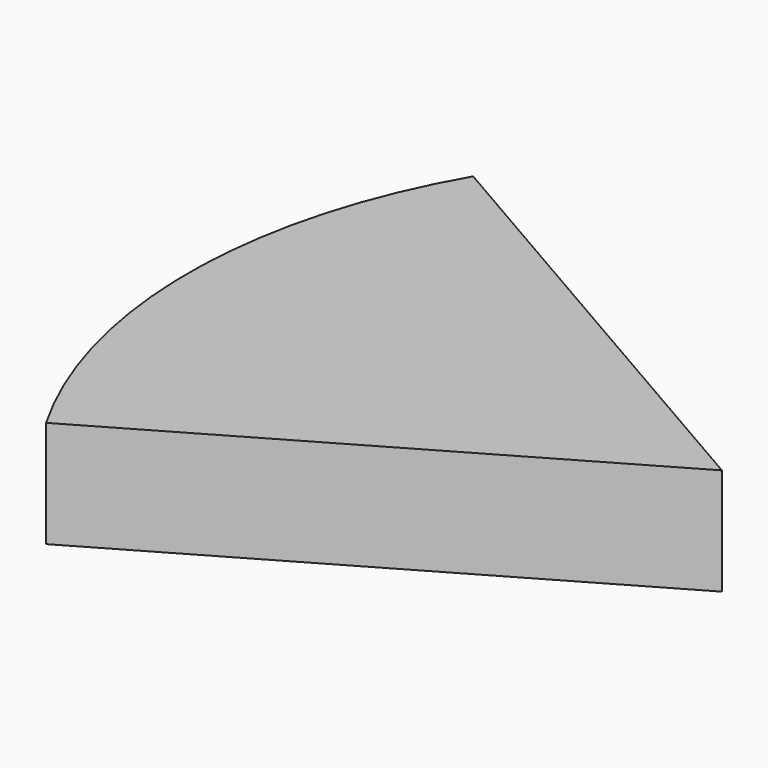
from build123d import *

# Parameters (mm, degrees)
F0_W          = 25
F0_H          = 5
F1_ANGLE_BACK = 30
F1_ANGLE      = 60


with BuildPart() as f1:
    # F0 (on Front) → F1 (revolve)
    with BuildSketch(Plane.XZ, mode=Mode.PRIVATE) as f1_sk:
        with Locations((12.5, -2.5)):
            Rectangle(F0_W, F0_H)
    revolve(f1_sk.sketch.rotate(Axis((25, 0, -2.5), (0, 0, -1)), -F1_ANGLE_BACK), axis=Axis((25, 0, -2.5), (0, 0, -1)), revolution_arc=F1_ANGLE)


solid = f1.part
